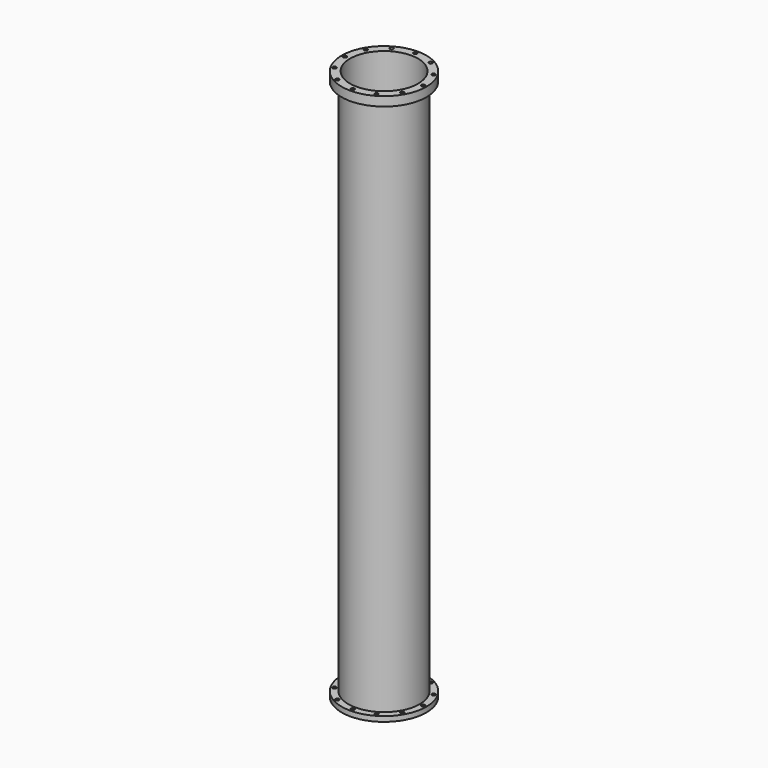
from build123d import *

# Parameters (mm, degrees)
F0_R     = 117.18925
F0_R_2   = 98.46945
F1_DEPTH = 14.1224
F2_R     = 98.4885
F2_R_2   = 93.98
F3_DEPTH = 1524
F4_R     = 117.18925
F4_R_2   = 98.46945
F5_DEPTH = 25.4
F6_R     = 4.96062
F7_DEPTH = 1524.001


with BuildPart() as f1:
    # F0 (on Top) → F1 (new body)
    with BuildSketch(Plane.XY):
        Circle(F0_R)
        Circle(F0_R_2, mode=Mode.SUBTRACT)
    extrude(amount=F1_DEPTH)

    # F2 (on face) → F3 (join)
    with BuildSketch(Plane(origin=(0, 0, 0), x_dir=(1, 0, 0), z_dir=(0, 0, -1))):
        Circle(F2_R)
        Circle(F2_R_2, mode=Mode.SUBTRACT)
    extrude(amount=-F3_DEPTH)

    # F4 (on face) → F5 (join)
    with BuildSketch(Plane.XY.offset(1524)):
        Circle(F4_R)
        Circle(F4_R_2, mode=Mode.SUBTRACT)
    extrude(amount=-F5_DEPTH)

    # F6 (on face) → F7 (cut, through all)
    with BuildSketch(Plane.XY.offset(1524)):
        with Locations((0, -108.24972)):
            Circle(F6_R)
        with Locations((54.12486, -93.747007)):
            Circle(F6_R)
        with Locations((93.747007, -54.12486)):
            Circle(F6_R)
        with Locations((108.24972, 0)):
            Circle(F6_R)
        with Locations((93.747007, 54.12486)):
            Circle(F6_R)
        with Locations((54.12486, 93.747007)):
            Circle(F6_R)
        with Locations((0, 108.24972)):
            Circle(F6_R)
        with Locations((-54.12486, 93.747007)):
            Circle(F6_R)
        with Locations((-93.747007, 54.12486)):
            Circle(F6_R)
        with Locations((-108.24972, 0)):
            Circle(F6_R)
        with Locations((-93.747007, -54.12486)):
            Circle(F6_R)
        with Locations((-54.12486, -93.747007)):
            Circle(F6_R)
    extrude(amount=-F7_DEPTH, mode=Mode.SUBTRACT)


solid = f1.part
